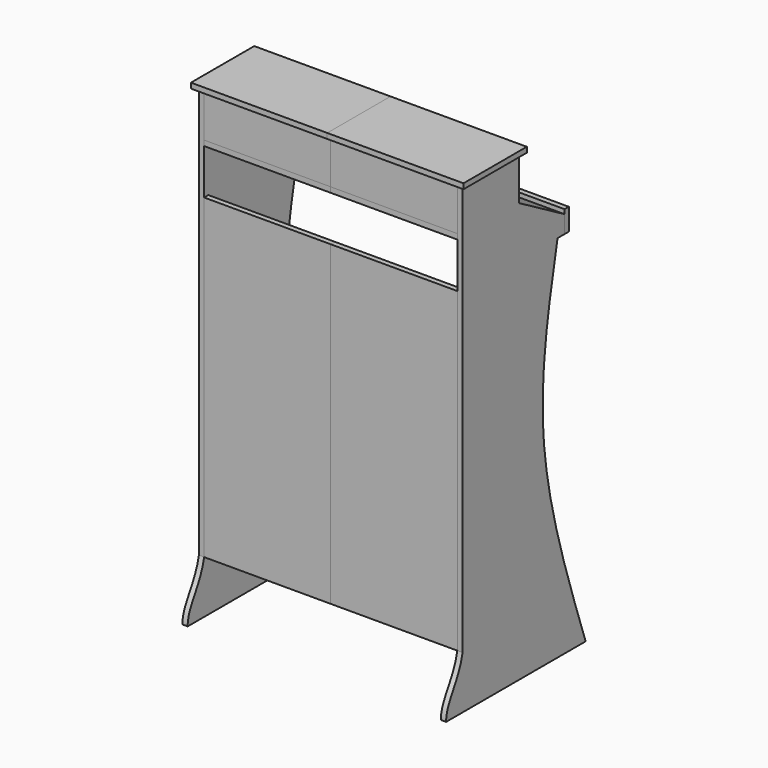
from build123d import *

# Parameters (mm, degrees)
F2_DEPTH       = 15.24
F4_DEPTH       = 381
F6_DEPTH       = 365.76
F7_W           = 203.2
F7_H           = 15.24
F8_DEPTH       = 365.76
F9_W           = 15.24
F9_H           = 127
F10_DEPTH      = 365.76
F12_DEPTH      = 381
F12_DEPTH_BACK = 12.7
F13_W          = 15.24
F13_H          = 914.6535638101
F14_DEPTH      = 365.76
F15_W          = 279.4
F15_H          = 15.24
F16_DEPTH      = 365.76
F17_W          = 152.4
F17_H          = 15.24
F18_DEPTH      = 365.76
F19_W          = 15.24
F19_H          = 91.44
F20_DEPTH      = 365.76


with BuildPart() as f2:
    # F1 (on Right) → F2 (new body)
    with BuildSketch(Plane.YZ):
        with BuildLine():
            Line((0, 1066.8), (0, 1117.6))
            Line((0, 1117.6), (-164.9778394209, 1212.85))
            Line((-164.9778394209, 1212.85), (-164.9778394209, 1339.85))
            Line((-164.9778394209, 1339.85), (-368.1778394209, 1339.85))
            Line((-368.1778394209, 1339.85), (-368.1778394209, 152.1464361899))
            add(Edge.make_bspline(
                [(-368.1778394209, 152.1464361899), (-382.086366415, 82.5592055917), (-427.2283613682, 51.862642169), (-427.7654417515, 0)],
                knots=[0, 0, 0, 0, 163.3989608192, 163.3989608192, 163.3989608192, 163.3989608192], degree=3))
            Line((-427.7654417515, 0), (-376.9654417515, 0))
            Line((-376.9654417515, 0), (0, 0))
            Line((0, 0), (76.2, 0))
            add(Edge.make_bspline(
                [(-25.4, 1066.8), (-57.0415458343, 909.1757988884), (-123.9763063255, 575.7363960136), (7.0910761644, 198.767393963), (76.2, 0)],
                knots=[0, 0, 0, 0, 0.4727221791, 1, 1, 1, 1], degree=3))
            Line((-25.4, 1066.8), (0, 1066.8))
        make_face()
    extrude(amount=-F2_DEPTH)


with BuildPart() as f4:
    # F3 (on Right) → F4 (new body, through all)
    with BuildSketch(Plane.YZ):
        Polygon((0, 1130.3), (0, 1117.6), (0, 1066.8), (15.24, 1066.8), (15.24, 1130.3), align=None)
    extrude(amount=-F4_DEPTH)


with BuildPart() as f6:
    # F5 (on face) → F6 (new body, through all)
    with BuildSketch(Plane(origin=(-15.24, 0, 0), x_dir=(0, -1, 0), z_dir=(-1, 0, 0))):
        Polygon((164.9778394209, 1212.85), (0, 1117.6), (0, 1100.0023637951), (164.9778394209, 1195.2523637951), align=None)
    extrude(amount=F6_DEPTH)


with BuildPart() as f8:
    # F7 (on face) → F8 (new body, through all)
    with BuildSketch(Plane(origin=(-15.24, 0, 0), x_dir=(0, -1, 0), z_dir=(-1, 0, 0))):
        with Locations((266.5778394209, 1205.23)):
            Rectangle(F7_W, F7_H)
    extrude(amount=F8_DEPTH)


with BuildPart() as f10:
    # F9 (on face) → F10 (new body, through all)
    with BuildSketch(Plane(origin=(-15.24, 0, 0), x_dir=(0, -1, 0), z_dir=(-1, 0, 0))):
        with Locations((360.5578394209, 1276.35)):
            Rectangle(F9_W, F9_H)
    extrude(amount=F10_DEPTH)


with BuildPart() as f12:
    # F11 (on face) → F12 (new body, two sides)
    with BuildSketch(Plane.YZ) as f12_sk:
        Polygon((-380.8778394209, 1355.09), (-380.8778394209, 1339.85), (-368.1778394209, 1339.85), (-164.9778394209, 1339.85), (-152.2778394209, 1339.85), (-152.2778394209, 1355.09), align=None)
    extrude(amount=-F12_DEPTH)
    extrude(f12_sk.sketch, amount=F12_DEPTH_BACK)


with BuildPart() as f14:
    # F13 (on face) → F14 (new body, through all)
    with BuildSketch(Plane(origin=(-15.24, 0, 0), x_dir=(0, -1, 0), z_dir=(-1, 0, 0))):
        with Locations((360.5578394209, 609.4732180949)):
            Rectangle(F13_W, F13_H)
    extrude(amount=F14_DEPTH)


with BuildPart() as f16:
    # F15 (on face) → F16 (new body, through all)
    with BuildSketch(Plane(origin=(-15.24, 0, 0), x_dir=(0, -1, 0), z_dir=(-1, 0, 0))):
        with Locations((213.2378394209, 855.98)):
            Rectangle(F15_W, F15_H)
    extrude(amount=F16_DEPTH)


with BuildPart() as f18:
    # F17 (on face) → F18 (new body, through all)
    with BuildSketch(Plane(origin=(-15.24, 0, 0), x_dir=(0, -1, 0), z_dir=(-1, 0, 0))):
        with Locations((276.7378394209, 312.42)):
            Rectangle(F17_W, F17_H)
    extrude(amount=F18_DEPTH)


with BuildPart() as f20:
    # F19 (on face) → F20 (new body, through all)
    with BuildSketch(Plane(origin=(-15.24, 0, 0), x_dir=(0, -1, 0), z_dir=(-1, 0, 0))):
        with Locations((192.9178394209, 350.52)):
            Rectangle(F19_W, F19_H)
    extrude(amount=F20_DEPTH)


with BuildPart() as f21_1:
    # F21: instance of F4
    add(f4.part.mirror(Plane.YZ.offset(-381)))


with BuildPart() as f21_2:
    # F21: instance of F6
    add(f6.part.mirror(Plane.YZ.offset(-381)))


with BuildPart() as f21_3:
    # F21: instance of F8
    add(f8.part.mirror(Plane.YZ.offset(-381)))


with BuildPart() as f21_4:
    # F21: instance of F10
    add(f10.part.mirror(Plane.YZ.offset(-381)))


with BuildPart() as f21_5:
    # F21: instance of F12
    add(f12.part.mirror(Plane.YZ.offset(-381)))


with BuildPart() as f21_6:
    # F21: instance of F14
    add(f14.part.mirror(Plane.YZ.offset(-381)))


with BuildPart() as f21_7:
    # F21: instance of F16
    add(f16.part.mirror(Plane.YZ.offset(-381)))


with BuildPart() as f21_8:
    # F21: instance of F18
    add(f18.part.mirror(Plane.YZ.offset(-381)))


with BuildPart() as f21_9:
    # F21: instance of F20
    add(f20.part.mirror(Plane.YZ.offset(-381)))


with BuildPart() as f21_10:
    # F21: instance of F2
    add(f2.part.mirror(Plane.YZ.offset(-381)))


solid = Compound([f2.part, f4.part, f6.part, f8.part, f10.part, f12.part, f14.part, f16.part, f18.part, f20.part, f21_1.part, f21_2.part, f21_3.part, f21_4.part, f21_5.part, f21_6.part, f21_7.part, f21_8.part, f21_9.part, f21_10.part])
